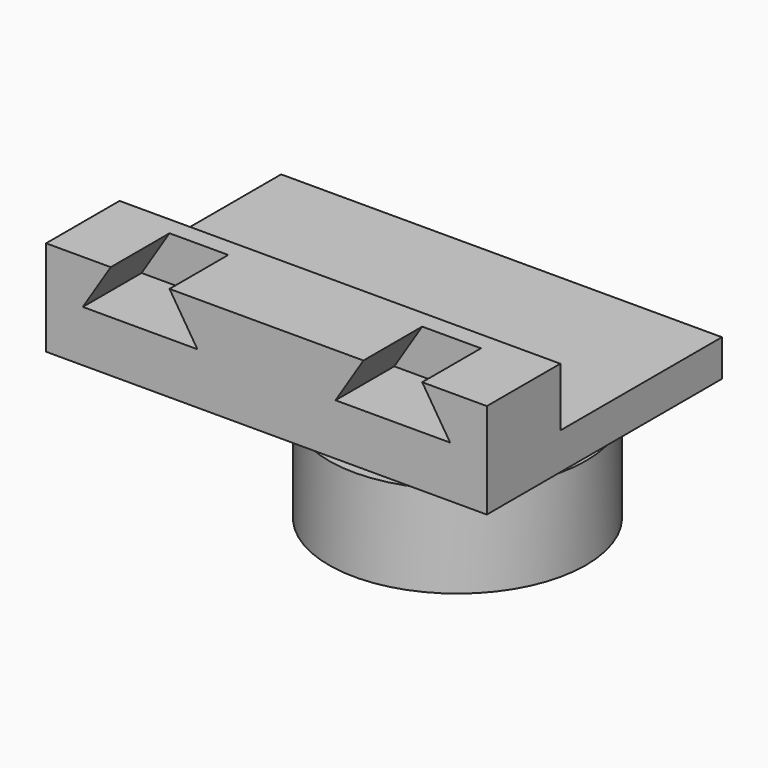
from build123d import *

# Parameters (mm, degrees)
F0_W      = 38.1
F0_H      = 25.4
F1_DEPTH  = 3.175
F3_DEPTH  = 6.35
F4_W      = 38.1
F4_H      = 1.5875
F5_DEPTH  = 5.08
F6_R      = 11.1125
F7_DEPTH  = 9.525
F8_R      = 11.43
F8_R_2    = 7.62
F9_DEPTH  = 1.5875
F10_W     = 19.05
F10_H     = 10.16
F11_DEPTH = 3.175


with BuildPart() as f1:
    # F0 (on Top) → F1 (new body)
    with BuildSketch(Plane.XY):
        with Locations((-19.05, 12.7)):
            Rectangle(F0_W, F0_H)
    extrude(amount=F1_DEPTH)

    # F2 (on face) → F3 (join)
    with BuildSketch(Plane.XZ):
        Polygon((-38.1, 8.255), (-38.1, 3.175), (0, 3.175), (0, 8.255), (-5.588, 8.255), (-3.175, 4.445), (-13.081, 4.445), (-10.668, 8.255), (-27.432, 8.255), (-25.019, 4.445), (-34.925, 4.445), (-32.512, 8.255), align=None)
    extrude(amount=-F3_DEPTH)

    # F4 (on face) → F5 (join, through all)
    with BuildSketch(Plane.XY.offset(3.175)):
        with Locations((-19.05, 7.14375)):
            Rectangle(F4_W, F4_H)
    extrude(amount=F5_DEPTH)

    # F6 (on face) → F7 (join)
    with BuildSketch(Plane(origin=(0, 0, 0), x_dir=(1, 0, 0), z_dir=(0, 0, -1))):
        with Locations((-12.7, -12.7)):
            Circle(F6_R)
    extrude(amount=F7_DEPTH)

    # F8 (on face) → F9 (cut)
    with BuildSketch(Plane(origin=(0, 0, 0), x_dir=(1, 0, 0), z_dir=(0, 0, -1))):
        with Locations((-12.7, -12.7)):
            Circle(F8_R)
        with Locations((-12.7, -12.7)):
            Circle(F8_R_2, mode=Mode.SUBTRACT)
    extrude(amount=F9_DEPTH, mode=Mode.SUBTRACT)

    # F10 (on face) → F11 (join)
    with BuildSketch(Plane(origin=(0, 0, 0), x_dir=(1, 0, 0), z_dir=(0, 0, -1))):
        with Locations((-28.575, -12.7)):
            Rectangle(F10_W, F10_H)
    extrude(amount=F11_DEPTH)


solid = f1.part
